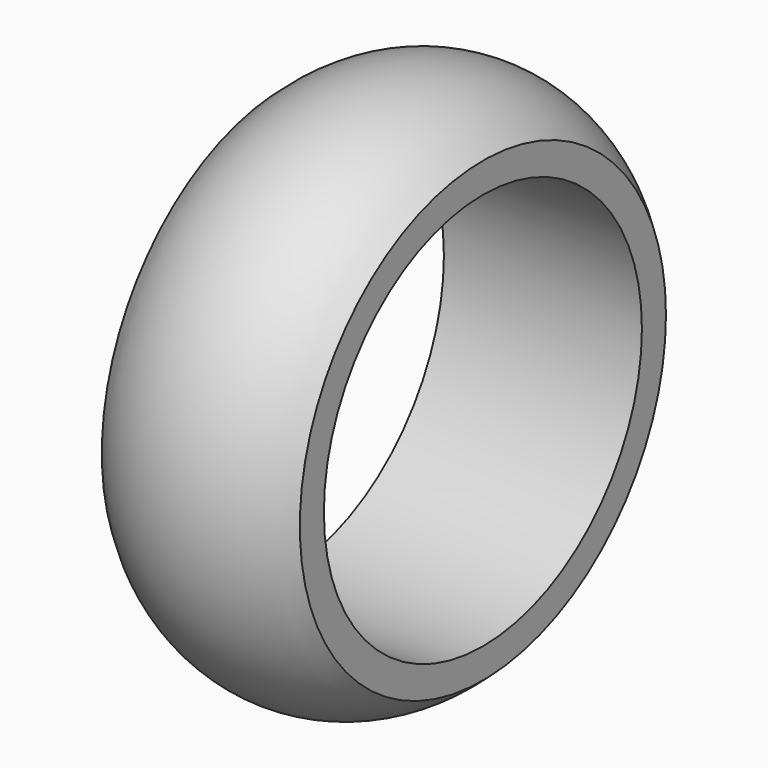
from build123d import *


with BuildPart() as part:
    # Sketch → Revolution (revolve)
    with BuildSketch(Plane.XY):
        with BuildLine():
            ThreePointArc((3.735552, 8.634274), (0, 10.165467), (-3.735552, 8.634274))
            Line((-3.735552, 8.634274), (-3.735552, 7.5))
            Line((3.735552, 7.5), (-3.735552, 7.5))
            Line((3.735552, 8.634274), (3.735552, 7.5))
        make_face()
    revolve(axis=Axis((0, 0, 0), (1, 0, 0)))


solid = part.part
